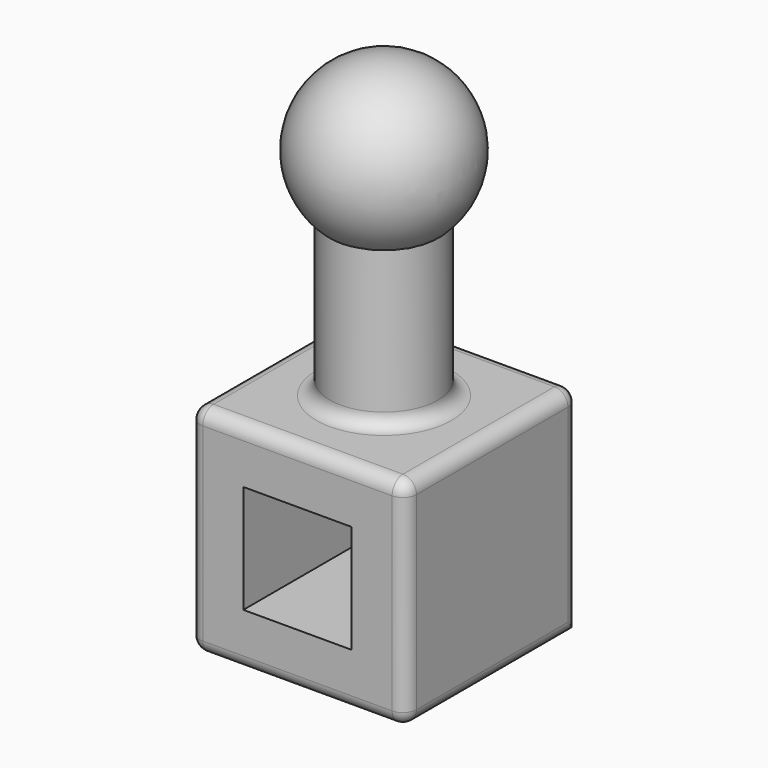
from build123d import *

# Parameters (mm, degrees)
F0_W     = 101.6
F0_H     = 101.6
F1_DEPTH = 101.6
F3_R     = 25.4
F4_DEPTH = 101.6
F7_W     = 50.8
F7_H     = 50.8
F8_DEPTH = 101.6
F9_R     = 6.35


with BuildPart() as f1:
    # F0 (on Top) → F1 (new body)
    with BuildSketch(Plane.XY):
        Rectangle(F0_W, F0_H)
    extrude(amount=F1_DEPTH)

    # F3 (on face) → F4 (join)
    with BuildSketch(Plane.XY.offset(101.6)):
        Circle(F3_R)
    extrude(amount=F4_DEPTH)

    # F7 (on face) → F8 (cut)
    with BuildSketch(Plane.XZ.offset(50.8)):
        with Locations((0, 50.8)):
            Rectangle(F7_W, F7_H)
    extrude(amount=-F8_DEPTH, mode=Mode.SUBTRACT)

    # F9
    f9_edges = [f1.edges().sort_by_distance(p)[0] for p in [
        (50.8, 0, 101.6),
        (50.8, -50.8, 50.8),
        (50.8, 50.8, 50.8),
        (50.8, 0, 0),
        (0, -50.8, 101.6),
        (-50.8, -50.8, 50.8),
        (0, -50.8, 0),
        (-50.8, 0, 101.6),
        (0, 50.8, 101.6),
        (-50.8, 0, 0),
        (-50.8, 50.8, 50.8),
        (-25.4, 0, 101.6),
        (25.4, 0, 152.4),
        (-25.4, 0, 203.2),
    ]]
    fillet(f9_edges, radius=F9_R)


with BuildPart() as f6:
    # F5 (on face) → F6 (revolve)
    with BuildSketch(Plane.XY.offset(203.2)):
        with BuildLine():
            Line((0, -25.4), (0, -38.1))
            ThreePointArc((0, -38.1), (38.1, 0), (0, 38.1))
            Line((0, 38.1), (0, 25.4))
            ThreePointArc((0, 25.4), (17.9605122421, 17.9605122421), (25.4, 0))
            ThreePointArc((25.4, 0), (17.9605122421, -17.9605122421), (0, -25.4))
        make_face()
        with BuildLine():
            Line((0, 25.4), (0, -25.4))
            ThreePointArc((0, -25.4), (17.9605122421, -17.9605122421), (25.4, 0))
            ThreePointArc((25.4, 0), (17.9605122421, 17.9605122421), (0, 25.4))
        make_face()
    revolve(axis=Axis((0, 0, 203.2), (0, -1, 0)))


solid = Compound([f1.part, f6.part])
